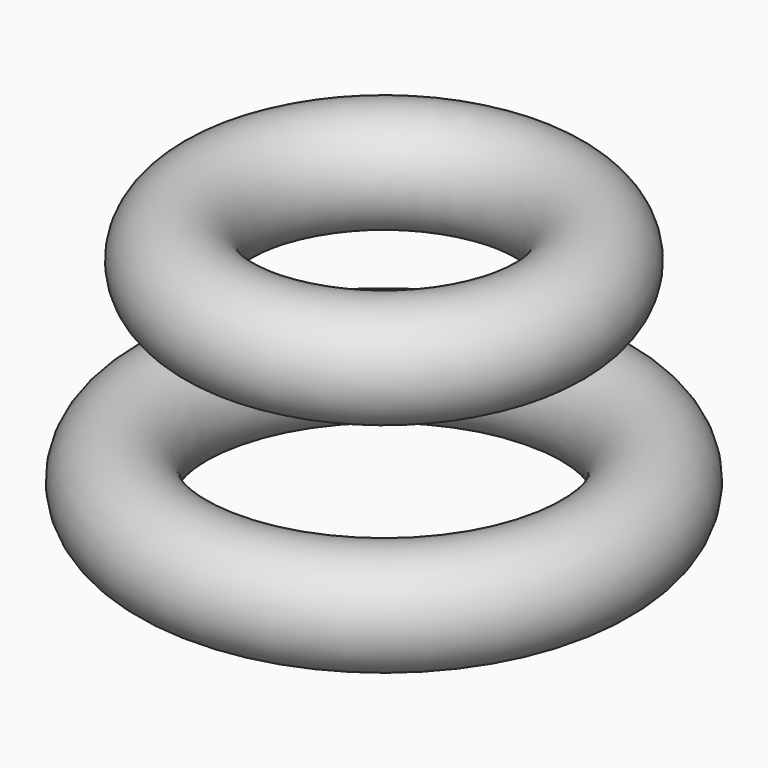
from build123d import *

# Parameters (mm, degrees)
F0_R = 50


with BuildPart() as f1:
    # F0 (on Front) → F1 (revolve)
    with BuildSketch(Plane.XZ):
        with Locations((-50, 0)):
            Circle(F0_R)
        with Locations((307.641655, 184.158877)):
            Circle(F0_R)
    revolve(axis=Axis((150.773987, 0, -12.218025), (0, 0, -1)))


solid = f1.part
